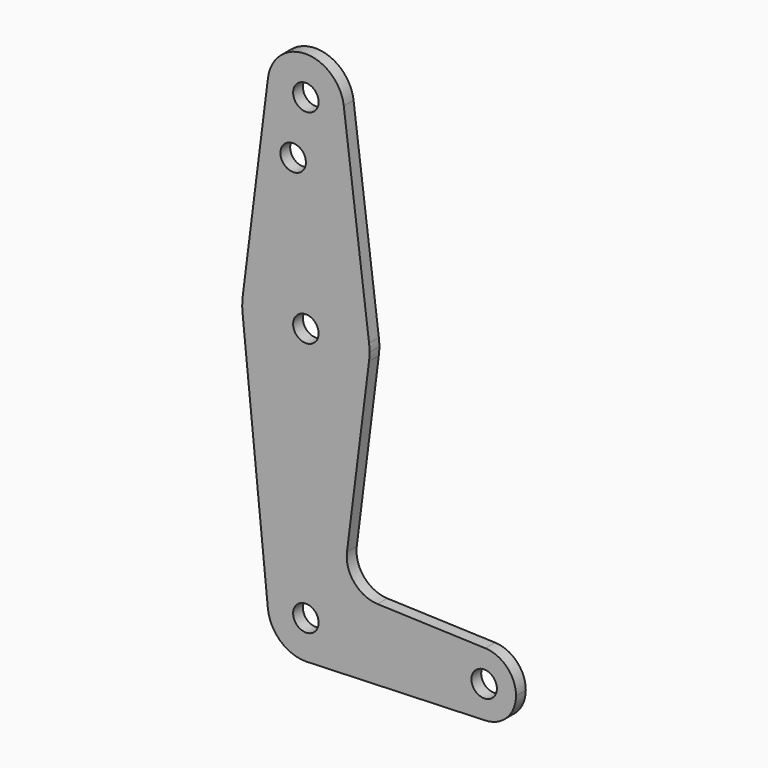
from build123d import *

# Parameters (mm, degrees)
F0_R     = 3.175
F1_DEPTH = 3.048


with BuildPart() as f1:
    # F0 (on Front) → F1 (new body)
    with BuildSketch(Plane.XZ):
        with BuildLine():
            ThreePointArc((-9.450293, 115.490625), (-0.596483, 104.793695), (9.525, 114.3))
            ThreePointArc((9.525, 114.3), (9.506305, 114.896483), (9.450293, 115.490625))
            ThreePointArc((9.450293, 115.490625), (0, 123.825), (-9.450293, 115.490625))
        make_face()
        with Locations((0, 114.3)):
            Circle(F0_R, mode=Mode.SUBTRACT)
        with BuildLine():
            ThreePointArc((9.450293, 115.490625), (9.506305, 114.896483), (9.525, 114.3))
            ThreePointArc((9.525, 114.3), (-0.596483, 104.793695), (-9.450293, 115.490625))
            Line((-9.450293, 115.490625), (-15.750488, 65.484375))
            ThreePointArc((-15.750488, 65.484375), (0, 79.375), (15.750488, 65.484375))
            Line((15.750488, 65.484375), (9.450293, 115.490625))
        make_face()
        with Locations((-3.175, 100.0252)):
            Circle(F0_R, mode=Mode.SUBTRACT)
        with BuildLine():
            ThreePointArc((15.875, 63.5), (15.843841, 64.494139), (15.750488, 65.484375))
            ThreePointArc((15.750488, 65.484375), (0, 79.375), (-15.750488, 65.484375))
            ThreePointArc((-15.750488, 65.484375), (-15.873744, 63.699705), (-15.795426, 61.9125))
            ThreePointArc((-15.795426, 61.9125), (-0.199705, 47.626256), (15.750488, 61.515625))
            ThreePointArc((15.750488, 61.515625), (15.843841, 62.505861), (15.875, 63.5))
        make_face()
        with Locations((0, 63.5)):
            Circle(F0_R, mode=Mode.SUBTRACT)
        with BuildLine():
            ThreePointArc((15.750488, 61.515625), (-0.199705, 47.626256), (-15.795426, 61.9125))
            Line((-15.795426, 61.9125), (-9.477255, -0.9525))
            ThreePointArc((-9.477255, -0.9525), (-7.063929, 6.389564), (0, 9.525))
            ThreePointArc((0, 9.525), (0.338886, 9.51897), (0.677344, 9.500886))
            ThreePointArc((0.677344, 9.500886), (6.970557, 6.491299), (9.525, 0))
            ThreePointArc((9.525, 0), (6.970557, -6.491299), (0.677344, -9.500886))
            Line((0.677344, -9.500886), (44.732405, -7.932475))
            ThreePointArc((44.732405, -7.932475), (36.5125, 0.000539), (44.733482, 7.932436))
            Line((44.733482, 7.932436), (17.850784, 8.893145))
            ThreePointArc((17.850784, 8.893145), (12.079103, 11.687042), (10.246875, 17.832049))
            Line((10.246875, 17.832049), (15.750488, 61.515625))
        make_face()
        with BuildLine():
            ThreePointArc((0, 9.525), (-7.063929, 6.389564), (-9.477255, -0.9525))
            ThreePointArc((-9.477255, -0.9525), (-6.389564, -7.063929), (0, -9.525))
            Line((0, -9.525), (0.677344, -9.500886))
            ThreePointArc((0.677344, -9.500886), (6.970557, -6.491299), (9.525, 0))
            ThreePointArc((9.525, 0), (6.970557, 6.491299), (0.677344, 9.500886))
            Line((0.677344, 9.500886), (0, 9.525))
        make_face()
        Circle(F0_R, mode=Mode.SUBTRACT)
        with BuildLine():
            Line((0.677344, -9.500886), (0, -9.525))
            ThreePointArc((0, -9.525), (0.338886, -9.51897), (0.677344, -9.500886))
        make_face()
        with BuildLine():
            ThreePointArc((52.3875, 0), (50.162007, 5.511523), (44.733482, 7.932436))
            ThreePointArc((44.733482, 7.932436), (36.5125, 0.000539), (44.732405, -7.932475))
            ThreePointArc((44.732405, -7.932475), (50.161633, -5.51191), (52.3875, 0))
        make_face()
        with Locations((44.45, 0)):
            Circle(F0_R, mode=Mode.SUBTRACT)
    extrude(amount=F1_DEPTH)


solid = f1.part
